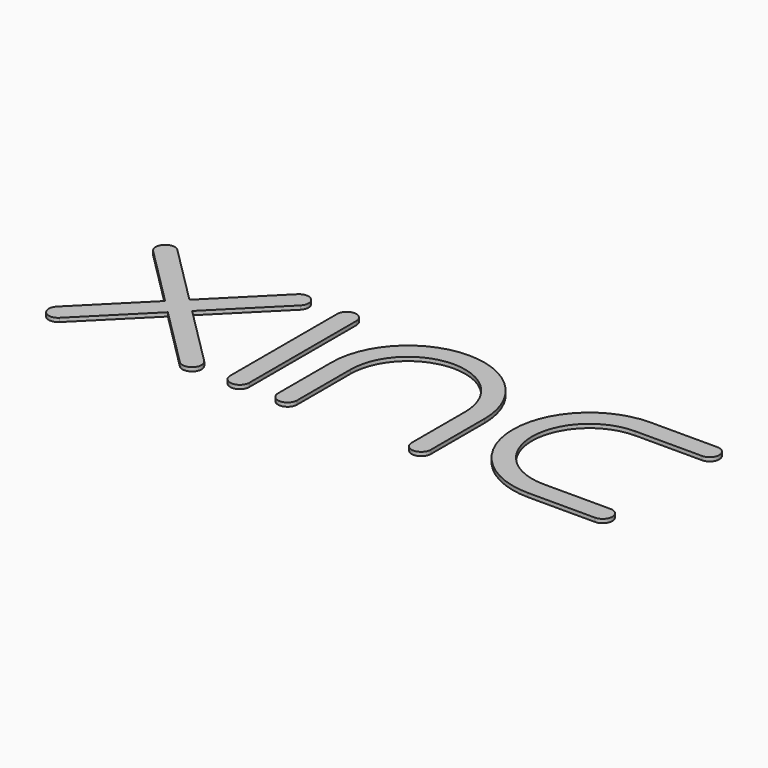
from build123d import *

# Parameters (mm, degrees)
F1_DEPTH = 5.08


with BuildPart() as f1:
    # F0 (on Top) → F1 (new body)
    with BuildSketch(Plane.XY):
        with BuildLine():
            Line((-203.235139, 17.925373), (-282.11758, 96.751196))
            ThreePointArc((-282.11758, 96.751196), (-300.530631, 98.39813), (-301.080256, 79.919744))
            Line((-301.080256, 79.919744), (-221.160512, 0))
            Line((-221.160512, 0), (-301.080256, -79.919744))
            ThreePointArc((-301.080256, -79.919744), (-301.080256, -97.880256), (-283.119744, -97.880256))
            Line((-283.119744, -97.880256), (-203.2, -17.960512))
            Line((-203.2, -17.960512), (-123.280256, -97.880256))
            ThreePointArc((-123.280256, -97.880256), (-105.318132, -97.878644), (-105.322968, -79.916521))
            Line((-105.322968, -79.916521), (-185.268179, -0.028691))
            Line((-185.268179, -0.028691), (-105.319744, 79.919744))
            ThreePointArc((-105.319744, 79.919744), (-105.319744, 97.880256), (-123.280256, 97.880256))
            Line((-123.280256, 97.880256), (-203.235139, 17.925373))
        make_face()
        with BuildLine():
            Line((-38.1, -88.9), (-38.1, 88.9))
            ThreePointArc((-38.1, 88.9), (-50.8, 101.6), (-63.5, 88.9))
            Line((-63.5, 88.9), (-63.5, -88.9))
            ThreePointArc((-63.5, -88.9), (-50.8, -101.6), (-38.1, -88.9))
        make_face()
        with BuildLine():
            Line((0, 0.00011), (0, -88.9))
            ThreePointArc((0, -88.9), (12.7, -101.6), (25.4, -88.9))
            Line((25.4, -88.9), (25.4, 0))
            ThreePointArc((25.4, 0), (101.6, 76.2), (177.8, 0))
            Line((177.8, 0), (177.8, -88.9))
            ThreePointArc((177.8, -88.9), (190.5, -101.6), (203.2, -88.9))
            Line((203.2, -88.9), (203.2, 0))
            ThreePointArc((203.2, 0), (101.600055, 101.600055), (0, 0.00011))
        make_face()
        with BuildLine():
            ThreePointArc((342.9, -76.2), (266.7, 0), (342.9, 76.2))
            Line((342.9, 76.2), (431.8, 76.2))
            ThreePointArc((431.8, 76.2), (444.5, 88.9), (431.8, 101.6))
            Line((431.8, 101.6), (342.9, 101.6))
            ThreePointArc((342.9, 101.6), (241.3, 0), (342.9, -101.6))
            Line((342.9, -101.6), (431.8, -101.6))
            ThreePointArc((431.8, -101.6), (444.5, -88.9), (431.8, -76.2))
            Line((431.8, -76.2), (342.9, -76.2))
        make_face()
    extrude(amount=F1_DEPTH)


solid = f1.part
